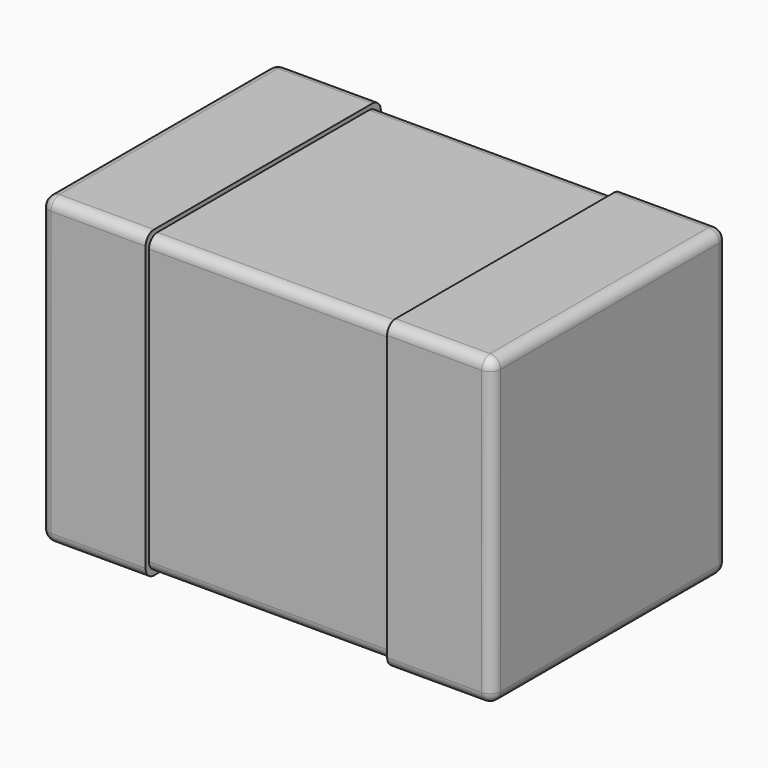
from build123d import *

# Parameters (mm, degrees)
PLATING_LEFT_W      = 0.5
PLATING_LEFT_H      = 1.4
PLATING_LEFT_DEPTH  = 1.45
PLATING_LEFT_F_R    = 0.05
PLATING_RIGHT_W     = 0.5
PLATING_RIGHT_H     = 1.4
PLATING_RIGHT_DEPTH = 1.45
PLATING_RIGHT_F_R   = 0.05
CHIP_W              = 2.11
CHIP_H              = 1.36
CHIP_DEPTH          = 1.41
CHIP_F_R            = 0.05


with BuildPart() as plating_left_f:
    # plating_left → plating_left (new body)
    with BuildSketch(Plane(origin=(-1.075, -0.7, 0), x_dir=(1, 0, 0), z_dir=(0, 0, 1))):
        with Locations((0.25, 0.7)):
            Rectangle(PLATING_LEFT_W, PLATING_LEFT_H)
    extrude(amount=PLATING_LEFT_DEPTH)

    # plating_left_f
    plating_left_f_edges = [plating_left_f.edges().sort_by_distance(p)[0] for p in [
        (-1.075, -0.7, 0.725),
        (-1.075, 0, 1.45),
        (-1.075, 0.7, 0.725),
        (-1.075, 0, 0),
        (-0.825, -0.7, 0),
        (-0.825, -0.7, 1.45),
        (-0.825, 0.7, 0),
        (-0.825, 0.7, 1.45),
    ]]
    fillet(plating_left_f_edges, radius=PLATING_LEFT_F_R)


with BuildPart() as plating_right_f:
    # plating_right → plating_right (new body)
    with BuildSketch(Plane(origin=(0.575, -0.7, 0), x_dir=(1, 0, 0), z_dir=(0, 0, 1))):
        with Locations((0.25, 0.7)):
            Rectangle(PLATING_RIGHT_W, PLATING_RIGHT_H)
    extrude(amount=PLATING_RIGHT_DEPTH)

    # plating_right_f
    plating_right_f_edges = [plating_right_f.edges().sort_by_distance(p)[0] for p in [
        (1.075, -0.7, 0.725),
        (1.075, 0, 1.45),
        (1.075, 0.7, 0.725),
        (1.075, 0, 0),
        (0.825, -0.7, 0),
        (0.825, -0.7, 1.45),
        (0.825, 0.7, 0),
        (0.825, 0.7, 1.45),
    ]]
    fillet(plating_right_f_edges, radius=PLATING_RIGHT_F_R)


with BuildPart() as capacitor:
    # chip → chip (new body)
    with BuildSketch(Plane(origin=(-1.055, -0.68, 0.02), x_dir=(1, 0, 0), z_dir=(0, 0, 1))):
        with Locations((1.055, 0.68)):
            Rectangle(CHIP_W, CHIP_H)
    extrude(amount=CHIP_DEPTH)

    # chip_f
    chip_f_edges = [capacitor.edges().sort_by_distance(p)[0] for p in [
        (0, -0.68, 0.02),
        (0, -0.68, 1.43),
        (0, 0.68, 0.02),
        (0, 0.68, 1.43),
    ]]
    fillet(chip_f_edges, radius=CHIP_F_R)

    # capacitor: union plating_left_f, plating_right_f
    add(plating_left_f.part)
    add(plating_right_f.part)


solid = capacitor.part
